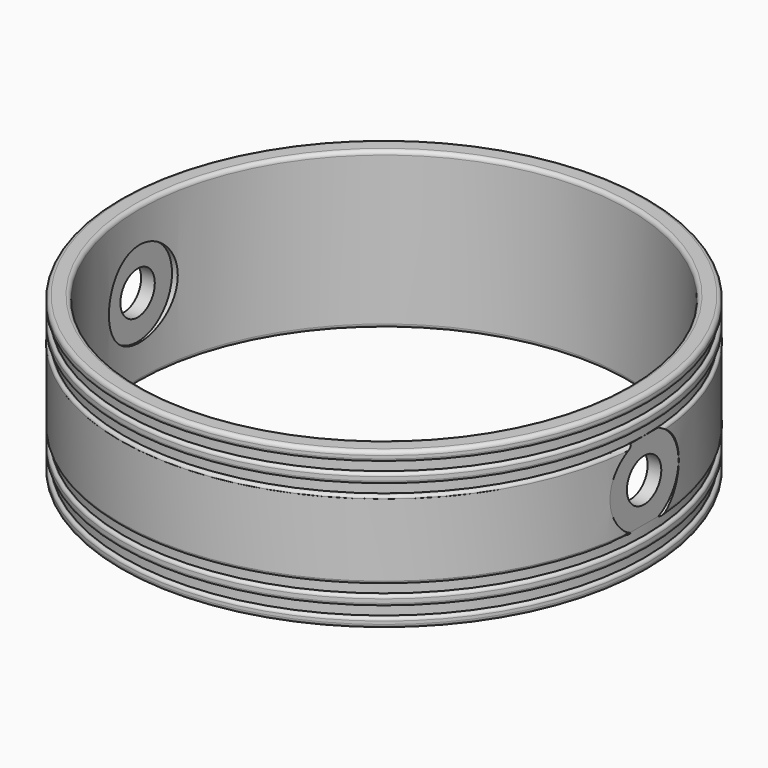
from build123d import *

# Parameters (mm, degrees)
SKETCH005_R      = 140.350312
SKETCH005_R_2    = 133
EXTRUDE011_DEPTH = 5
EXTRUDE010_DEPTH = 5
EXTRUDE008_DEPTH = 5
EXTRUDE009_DEPTH = 5
SKETCH004_R      = 157.293563
EXTRUDE007_DEPTH = 50
SKETCH003_R      = 22
EXTRUDE004_DEPTH = 10
EXTRUDE005_DEPTH = 10
EXTRUDE006_DEPTH = 10
EXTRUDE002_DEPTH = 10
SKETCH002_R      = 11
EXTRUDE_DEPTH    = 150
SKETCH_R         = 134.952227
SKETCH_R_2       = 125
EXTRUDE001_DEPTH = 80
FILLET_R         = 2
FILLET001_R      = 1.5
FILLET002_R      = 1.5
FILLET003_R      = 1.5
FILLET004_R      = 1.5
FILLET005_R      = 2


with BuildPart() as extrude011:
    # Sketch005 → Extrude011 (new body)
    with BuildSketch(Plane.XY):
        Circle(SKETCH005_R)
        Circle(SKETCH005_R_2, mode=Mode.SUBTRACT)
    extrude(amount=EXTRUDE011_DEPTH)


with BuildPart() as extrude011_1:
    # Extrude011 placement: moved
    add(extrude011.part.moved(Location((0, 0, -35))))


with BuildPart() as extrude010:
    # Sketch005 → Extrude010 (new body)
    with BuildSketch(Plane.XY):
        Circle(SKETCH005_R)
        Circle(SKETCH005_R_2, mode=Mode.SUBTRACT)
    extrude(amount=EXTRUDE010_DEPTH)


with BuildPart() as extrude010_1:
    # Extrude010 placement: moved
    add(extrude010.part.moved(Location((0, 0, -25))))


with BuildPart() as extrude008:
    # Sketch005 → Extrude008 (new body)
    with BuildSketch(Plane.XY):
        Circle(SKETCH005_R)
        Circle(SKETCH005_R_2, mode=Mode.SUBTRACT)
    extrude(amount=EXTRUDE008_DEPTH)


with BuildPart() as extrude008_1:
    # Extrude008 placement: moved
    add(extrude008.part.moved(Location((0, 0, 20))))


with BuildPart() as extrude009:
    # Sketch005 → Extrude009 (new body)
    with BuildSketch(Plane.XY):
        Circle(SKETCH005_R)
        Circle(SKETCH005_R_2, mode=Mode.SUBTRACT)
    extrude(amount=EXTRUDE009_DEPTH)


with BuildPart() as extrude009_1:
    # Extrude009 placement: moved
    add(extrude009.part.moved(Location((0, 0, 30))))


with BuildPart() as extrude007:
    # Sketch004 → Extrude007 (new body)
    with BuildSketch(Plane.XY):
        Circle(SKETCH004_R)
    extrude(amount=EXTRUDE007_DEPTH)


with BuildPart() as extrude007_1:
    # Extrude007 placement: moved
    add(extrude007.part.moved(Location((0, 0, 51))))


with BuildPart() as extrude004:
    # Sketch003 (on Face3 of Extrude) → Extrude004 (new body)
    with BuildSketch(Plane.YZ.offset(150)):
        Circle(SKETCH003_R)
    extrude(amount=-EXTRUDE004_DEPTH)


with BuildPart() as extrude004_1:
    # Extrude004 placement: moved
    add(extrude004.part.moved(Location((-283, 0, 0))))


with BuildPart() as extrude005:
    # Sketch003 (on Face3 of Extrude) → Extrude005 (new body)
    with BuildSketch(Plane.YZ.offset(150)):
        Circle(SKETCH003_R)
    extrude(amount=-EXTRUDE005_DEPTH)


with BuildPart() as extrude005_1:
    # Extrude005 placement: moved
    add(extrude005.part.moved(Location((-266, 0, 0))))


with BuildPart() as extrude006:
    # Sketch003 (on Face3 of Extrude) → Extrude006 (new body)
    with BuildSketch(Plane.YZ.offset(150)):
        Circle(SKETCH003_R)
    extrude(amount=-EXTRUDE006_DEPTH)


with BuildPart() as extrude006_1:
    # Extrude006 placement: moved
    add(extrude006.part.moved(Location((-24, 0, 0))))


with BuildPart() as extrude002:
    # Sketch003 (on Face3 of Extrude) → Extrude002 (new body)
    with BuildSketch(Plane.YZ.offset(150)):
        Circle(SKETCH003_R)
    extrude(amount=-EXTRUDE002_DEPTH)


with BuildPart() as extrude002_1:
    # Extrude002 placement: moved
    add(extrude002.part.moved(Location((-7, 0, 0))))


with BuildPart() as extrude_body:
    # Sketch002 → Extrude (new body, symmetric)
    with BuildSketch(Plane.YZ):
        Circle(SKETCH002_R)
    extrude(amount=EXTRUDE_DEPTH, both=True)


with BuildPart() as fillet005:
    # Sketch → Extrude001 (new body)
    with BuildSketch(Plane.XY):
        Circle(SKETCH_R)
        Circle(SKETCH_R_2, mode=Mode.SUBTRACT)
    extrude(amount=EXTRUDE001_DEPTH)


with BuildPart() as fillet005_1:
    # Extrude001 placement: moved
    add(fillet005.part.moved(Location((0, 0, -40))))

    # Cut: cut Extrude body
    add(extrude_body.part, mode=Mode.SUBTRACT)

    # Cut001: cut Extrude002
    add(extrude002_1.part, mode=Mode.SUBTRACT)

    # Cut002: cut Extrude006
    add(extrude006_1.part, mode=Mode.SUBTRACT)

    # Cut003: cut Extrude005
    add(extrude005_1.part, mode=Mode.SUBTRACT)

    # Cut004: cut Extrude004
    add(extrude004_1.part, mode=Mode.SUBTRACT)

    # Cut005: cut Extrude007
    add(extrude007_1.part, mode=Mode.SUBTRACT)

    # Cut006: cut Extrude009
    add(extrude009_1.part, mode=Mode.SUBTRACT)

    # Cut007: cut Extrude008
    add(extrude008_1.part, mode=Mode.SUBTRACT)

    # Cut008: cut Extrude010
    add(extrude010_1.part, mode=Mode.SUBTRACT)

    # Cut009: cut Extrude011
    add(extrude011_1.part, mode=Mode.SUBTRACT)

    # Fillet
    fillet_edges = [fillet005_1.edges().sort_by_distance(p)[0] for p in [
        (-125, 0, 40),
        (-134.952227, 0, 40),
    ]]
    fillet(fillet_edges, radius=FILLET_R)

    # Fillet001
    fillet001_edges = [fillet005_1.edges().sort_by_distance(p)[0] for p in [
        (-134.952227, 0, 35),
    ]]
    fillet(fillet001_edges, radius=FILLET001_R)

    # Fillet002
    fillet002_edges = [fillet005_1.edges().sort_by_distance(p)[0] for p in [
        (-134.952227, 0, 30),
        (-134.952227, 0, 25),
        (0, 134.952227, 20),
    ]]
    fillet(fillet002_edges, radius=FILLET002_R)

    # Fillet003
    fillet003_edges = [fillet005_1.edges().sort_by_distance(p)[0] for p in [
        (0, -134.952227, 20),
    ]]
    fillet(fillet003_edges, radius=FILLET003_R)

    # Fillet004
    fillet004_edges = [fillet005_1.edges().sort_by_distance(p)[0] for p in [
        (0, -134.952227, -20),
        (0, 134.952227, -20),
        (-134.952227, 0, -25),
        (-134.952227, 0, -30),
        (-134.952227, 0, -35),
    ]]
    fillet(fillet004_edges, radius=FILLET004_R)

    # Fillet005
    fillet005_edges = [fillet005_1.edges().sort_by_distance(p)[0] for p in [
        (-125, 0, -40),
        (-134.952227, 0, -40),
    ]]
    fillet(fillet005_edges, radius=FILLET005_R)


solid = fillet005_1.part
